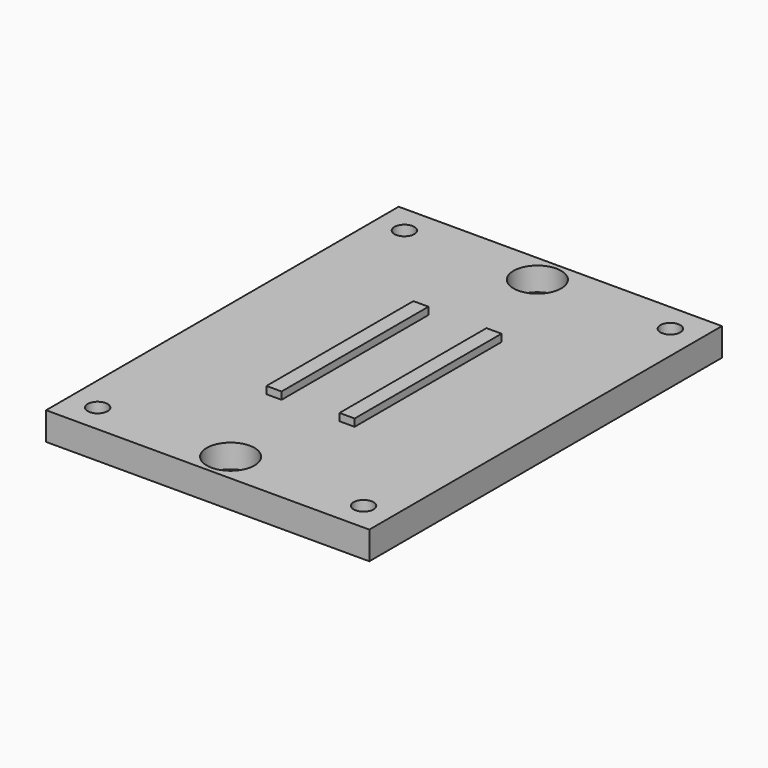
from build123d import *

# Parameters (mm, degrees)
F0_W           = 44
F0_H           = 60
F1_DEPTH       = 3.8
F3_D           = 2.7
F4_D           = 3.4
F4_CBORE_D     = 6.5
F4_CBORE_DEPTH = 3.2
F5_W           = 2.05
F5_H           = 25
F6_DEPTH       = 1


with BuildPart() as f1:
    # F0 (on Top) → F1 (new body)
    with BuildSketch(Plane.XY):
        Rectangle(F0_W, F0_H)
    extrude(amount=F1_DEPTH)

    # F3 (through all)
    with Locations(Plane.XY.offset(3.8)):
        with Locations((-18.1, 26.1), (18.1, 26.1), (18.1, -26.1), (-18.1, -26.1)):
            Hole(F3_D / 2)

    # F4 (through all)
    with Locations(Plane.XY.offset(3.8)):
        with Locations((0, 26.1), (0, -26.1)):
            CounterBoreHole(F4_D / 2, F4_CBORE_D / 2, F4_CBORE_DEPTH)

    # F5 (on face) → F6 (join)
    with BuildSketch(Plane.XY.offset(3.8)):
        with Locations((-4.975, 0)):
            Rectangle(F5_W, F5_H)
        with Locations((4.975, 0)):
            Rectangle(F5_W, F5_H)
    extrude(amount=F6_DEPTH)


solid = f1.part
